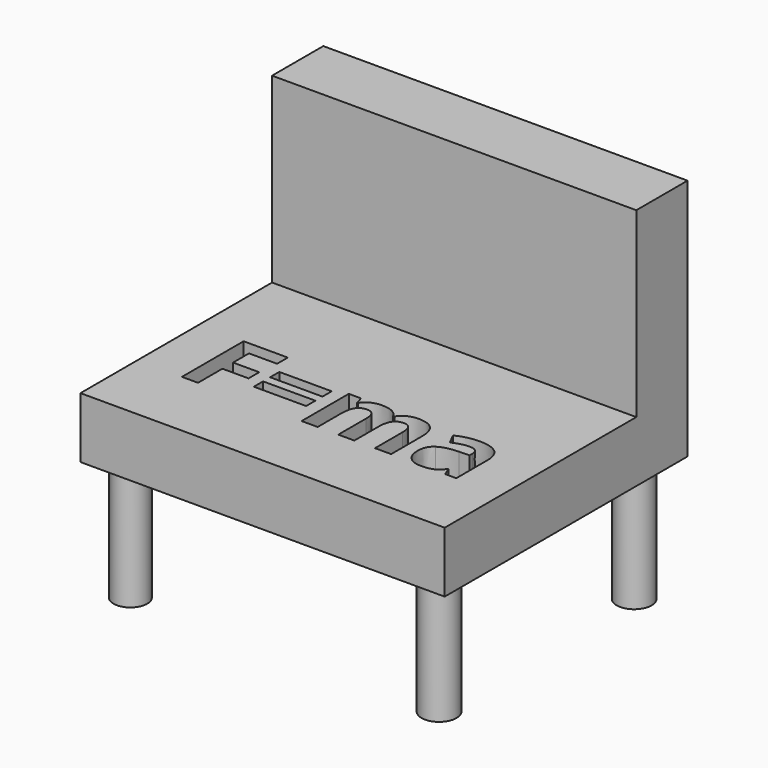
from build123d import *

# Parameters (mm, degrees)
F0_W     = 76.2
F0_H     = 63.5
F0_W_2   = 10.9535785814
F0_H_2   = 2.4180474793
F0_H_3   = 2.414517483
F1_DEPTH = 12.7
F2_W     = 76.2
F2_H     = 13.3969295336
F3_DEPTH = 38.1
F4_R     = 3.6592600081
F4_R_2   = 3.5160030893
F5_DEPTH = 25.4


with BuildPart() as f1:
    # F0 (on Top) → F1 (new body)
    with BuildSketch(Plane.XY):
        with Locations((14.4339624465, 0.632009135)):
            Rectangle(F0_W, F0_H)
        Polygon((-10.9549575136, -9.891049689), (-10.9549575136, -16.2662230432), (-14.3190440067, -16.2662230432), (-14.3190440067, -0.1376698565), (-5.0739836443, -0.1376698565), (-5.0739836443, -2.9404869347), (-10.9549575136, -2.9404869347), (-10.9549575136, -7.0988225998), (-5.4834632174, -7.0988225998), (-5.4834632174, -9.891049689), align=None, mode=Mode.SUBTRACT)
        with Locations((2.4996234606, -10.4470241095)):
            Rectangle(F0_W_2, F0_H_2, mode=Mode.SUBTRACT)
        with Locations((2.4996234606, -6.1774935602)):
            Rectangle(F0_W_2, F0_H_3, mode=Mode.SUBTRACT)
        with BuildLine():
            Line((21.7539883888, -10.078139494), (21.7539883888, -16.2662230432))
            Line((21.7539883888, -16.2662230432), (18.3899018957, -16.2662230432))
            Line((18.3899018957, -16.2662230432), (18.3899018957, -9.0615005538))
            add(Edge.make_bspline(
                [(18.3899018957, -9.0615005538), (18.3899018957, -7.7271619448), (17.9433573612, -7.0599926403)],
                knots=[0, 0, 0, 1, 1, 1], degree=2))
            add(Edge.make_bspline(
                [(17.9433573612, -7.0599926403), (17.4968128267, -6.3928233358), (16.5366538276, -6.3928233358)],
                knots=[0, 0, 0, 1, 1, 1], degree=2))
            add(Edge.make_bspline(
                [(16.5366538276, -6.3928233358), (15.2446751745, -6.3928233358), (14.6604607835, -7.3423923459)],
                knots=[0, 0, 0, 1, 1, 1], degree=2))
            add(Edge.make_bspline(
                [(14.6604607835, -7.3423923459), (14.0762463925, -8.291961356), (14.0762463925, -10.4629090929)],
                knots=[0, 0, 0, 1, 1, 1], degree=2))
            Line((14.0762463925, -10.4629090929), (14.0762463925, -16.2662230432))
            Line((14.0762463925, -16.2662230432), (10.7121598994, -16.2662230432))
            Line((10.7121598994, -16.2662230432), (10.7121598994, -3.9324159006))
            Line((10.7121598994, -3.9324159006), (13.2819972205, -3.9324159006))
            Line((13.2819972205, -3.9324159006), (13.7338367495, -5.5103242557))
            Line((13.7338367495, -5.5103242557), (13.9209265544, -5.5103242557))
            add(Edge.make_bspline(
                [(13.9209265544, -5.5103242557), (14.4186560356, -4.6595951426), (15.3558700586, -4.1812806412)],
                knots=[0, 0, 0, 1, 1, 1], degree=2))
            add(Edge.make_bspline(
                [(15.3558700586, -4.1812806412), (16.2930840816, -3.7029661398), (17.5074028157, -3.7029661398)],
                knots=[0, 0, 0, 1, 1, 1], degree=2))
            add(Edge.make_bspline(
                [(17.5074028157, -3.7029661398), (20.2749199307, -3.7029661398), (21.259788904, -5.5103242557)],
                knots=[0, 0, 0, 1, 1, 1], degree=2))
            Line((21.259788904, -5.5103242557), (21.5563085949, -5.5103242557))
            add(Edge.make_bspline(
                [(21.5563085949, -5.5103242557), (22.054038076, -4.6490051536), (23.0177270714, -4.1759856467)],
                knots=[0, 0, 0, 1, 1, 1], degree=2))
            add(Edge.make_bspline(
                [(23.0177270714, -4.1759856467), (23.9814160668, -3.7029661398), (25.1957348009, -3.7029661398)],
                knots=[0, 0, 0, 1, 1, 1], degree=2))
            add(Edge.make_bspline(
                [(25.1957348009, -3.7029661398), (27.2925526151, -3.7029661398), (28.3674364946, -4.7778500193)],
                knots=[0, 0, 0, 1, 1, 1], degree=2))
            add(Edge.make_bspline(
                [(28.3674364946, -4.7778500193), (29.4423203741, -5.8527338988), (29.4423203741, -8.2248914259)],
                knots=[0, 0, 0, 1, 1, 1], degree=2))
            Line((29.4423203741, -8.2248914259), (29.4423203741, -16.2662230432))
            Line((29.4423203741, -16.2662230432), (26.067643892, -16.2662230432))
            Line((26.067643892, -16.2662230432), (26.067643892, -9.0615005538))
            add(Edge.make_bspline(
                [(26.067643892, -9.0615005538), (26.067643892, -7.7271619448), (25.6210993575, -7.0599926403)],
                knots=[0, 0, 0, 1, 1, 1], degree=2))
            add(Edge.make_bspline(
                [(25.6210993575, -7.0599926403), (25.174554823, -6.3928233358), (24.2143958239, -6.3928233358)],
                knots=[0, 0, 0, 1, 1, 1], degree=2))
            add(Edge.make_bspline(
                [(24.2143958239, -6.3928233358), (22.9788971119, -6.3928233358), (22.3664427504, -7.2753224158)],
                knots=[0, 0, 0, 1, 1, 1], degree=2))
            add(Edge.make_bspline(
                [(22.3664427504, -7.2753224158), (21.7539883888, -8.1578214958), (21.7539883888, -10.078139494)],
                knots=[0, 0, 0, 1, 1, 1], degree=2))
        make_face(mode=Mode.SUBTRACT)
        with BuildLine():
            Line((43.0751661625, -16.2662230432), (40.7277186096, -16.2662230432))
            Line((40.7277186096, -16.2662230432), (40.0746692903, -14.5894747911))
            Line((40.0746692903, -14.5894747911), (39.9864193823, -14.5894747911))
            add(Edge.make_bspline(
                [(39.9864193823, -14.5894747911), (39.1392202655, -15.6590636761), (38.2390712039, -16.0738382438)],
                knots=[0, 0, 0, 1, 1, 1], degree=2))
            add(Edge.make_bspline(
                [(38.2390712039, -16.0738382438), (37.3389221422, -16.4886128114), (35.8951536473, -16.4886128114)],
                knots=[0, 0, 0, 1, 1, 1], degree=2))
            add(Edge.make_bspline(
                [(35.8951536473, -16.4886128114), (34.1195654983, -16.4886128114), (33.0993965617, -15.4719738712)],
                knots=[0, 0, 0, 1, 1, 1], degree=2))
            add(Edge.make_bspline(
                [(33.0993965617, -15.4719738712), (32.0792276252, -14.455334931), (32.0792276252, -12.580906885)],
                knots=[0, 0, 0, 1, 1, 1], degree=2))
            add(Edge.make_bspline(
                [(32.0792276252, -12.580906885), (32.0792276252, -10.618228931), (33.4523961938, -9.6863099025)],
                knots=[0, 0, 0, 1, 1, 1], degree=2))
            add(Edge.make_bspline(
                [(33.4523961938, -9.6863099025), (34.8255647623, -8.7543908739), (37.5930818773, -8.655550977)],
                knots=[0, 0, 0, 1, 1, 1], degree=2))
            Line((37.5930818773, -8.655550977), (39.7357896436, -8.5884810469))
            Line((39.7357896436, -8.5884810469), (39.7357896436, -8.0483916099))
            add(Edge.make_bspline(
                [(39.7357896436, -8.0483916099), (39.7357896436, -6.1739635639), (37.8154716454, -6.1739635639)],
                knots=[0, 0, 0, 1, 1, 1], degree=2))
            add(Edge.make_bspline(
                [(37.8154716454, -6.1739635639), (36.3364031873, -6.1739635639), (34.3384252701, -7.0670526329)],
                knots=[0, 0, 0, 1, 1, 1], degree=2))
            Line((34.3384252701, -7.0670526329), (33.2264764293, -4.7937350027))
            add(Edge.make_bspline(
                [(33.2264764293, -4.7937350027), (35.3550642103, -3.6782561656), (37.9460815093, -3.6782561656)],
                knots=[0, 0, 0, 1, 1, 1], degree=2))
            add(Edge.make_bspline(
                [(37.9460815093, -3.6782561656), (40.4276689223, -3.6782561656), (41.7514175424, -4.7602000377)],
                knots=[0, 0, 0, 1, 1, 1], degree=2))
            add(Edge.make_bspline(
                [(41.7514175424, -4.7602000377), (43.0751661625, -5.8421439098), (43.0751661625, -8.0483916099)],
                knots=[0, 0, 0, 1, 1, 1], degree=2))
            Line((43.0751661625, -8.0483916099), (43.0751661625, -16.2662230432))
        make_face(mode=Mode.SUBTRACT)
    extrude(amount=F1_DEPTH)

    # F2 (on face) → F3 (join)
    with BuildSketch(Plane.XY.offset(12.7)):
        with Locations((14.4339624465, 25.6835443682)):
            Rectangle(F2_W, F2_H)
    extrude(amount=F3_DEPTH)

    # F4 (on face) → F5 (join)
    with BuildSketch(Plane(origin=(0, 0, 0), x_dir=(1, 0, 0), z_dir=(0, 0, -1))):
        with Locations((46.7344261706, -25.6791654974)):
            Circle(F4_R)
        with Locations((46.7344261706, 25.3488849849)):
            Circle(F4_R)
        with Locations((-17.835047096, -25.6791654974)):
            Circle(F4_R_2)
        with Locations((-17.835047096, 25.3488849849)):
            Circle(F4_R_2)
    extrude(amount=F5_DEPTH)


solid = f1.part
